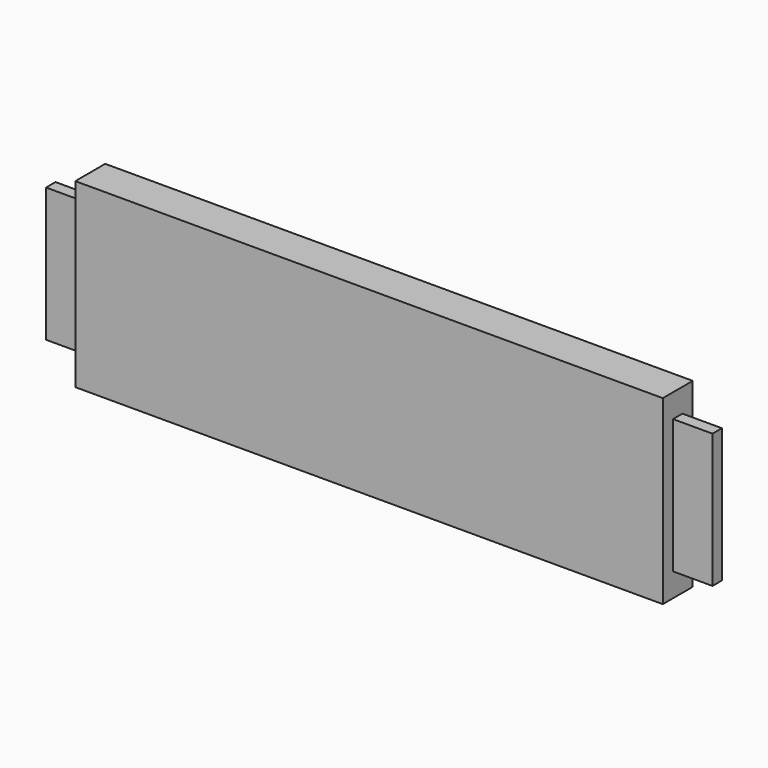
from build123d import *

# Parameters (mm, degrees)
F1_DEPTH = 19
F2_W     = 6.5
F2_H     = 68
F3_DEPTH = 20
F4_W     = 6.5
F4_H     = 68
F5_DEPTH = 20


with BuildPart() as f1:
    # F0 (on Front) → F1 (new body)
    with BuildSketch(Plane.XZ):
        Polygon((-65.72042, 69.094742), (-85.72042, 69.094742), (-85.72042, 1.094742), (-65.72042, 1.094742), (-65.72042, -10.905258), (232.27958, -10.905258), (232.27958, 1.094742), (252.27958, 1.094742), (252.27958, 69.094742), (232.27958, 69.094742), (232.27958, 81.094742), (-65.72042, 81.094742), align=None)
    extrude(amount=F1_DEPTH)

    # F2 (on face) → F3 (cut)
    with BuildSketch(Plane.YZ.offset(252.27958)):
        with Locations((-15.75, 35.094742)):
            Rectangle(F2_W, F2_H)
        with Locations((-3.25, 35.094742)):
            Rectangle(F2_W, F2_H)
    extrude(amount=-F3_DEPTH, mode=Mode.SUBTRACT)

    # F4 (on face) → F5 (cut)
    with BuildSketch(Plane(origin=(-85.72042, 0, 0), x_dir=(0, -1, 0), z_dir=(-1, 0, 0))):
        with Locations((3.25, 35.094742)):
            Rectangle(F4_W, F4_H)
        with Locations((15.75, 35.094742)):
            Rectangle(F4_W, F4_H)
    extrude(amount=-F5_DEPTH, mode=Mode.SUBTRACT)


solid = f1.part
